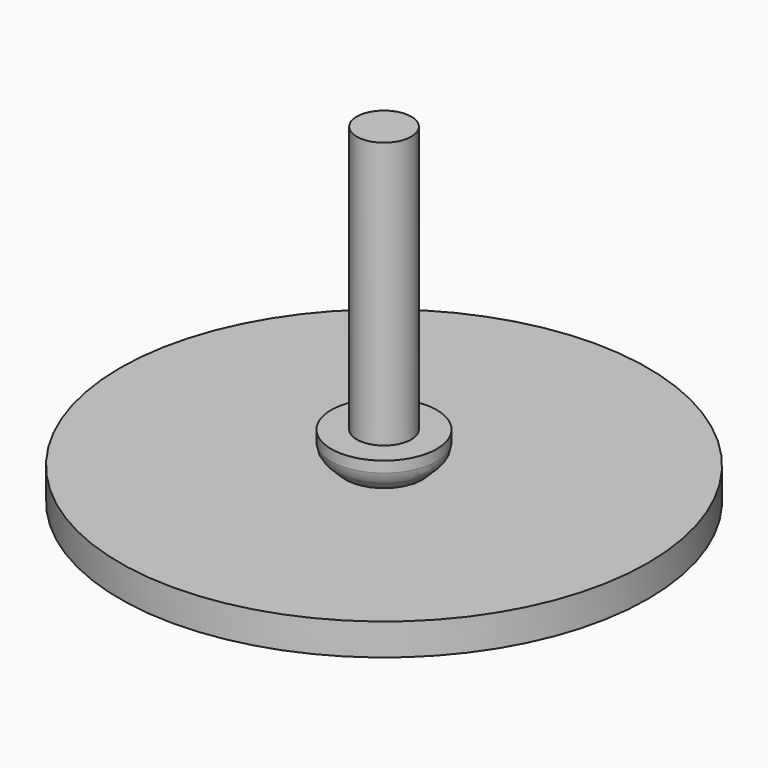
from build123d import *

# Parameters (mm, degrees)
F2_R     = 8
F2_R_2   = 4.125
F3_DEPTH = 9.6
F4_DEPTH = 4.8
F5_SIZE  = 6.96
F6_R     = 2.4
F2_R_3   = 40
F7_DEPTH = 4.8
F8_DEPTH = 50


with BuildPart() as f3:
    # F2 (on Top) → F3 (new body)
    with BuildSketch(Plane.XY):
        Circle(F2_R)
        Circle(F2_R_2, mode=Mode.SUBTRACT)
    extrude(amount=F3_DEPTH)

    # F2 (on Top) → F4 (join)
    with BuildSketch(Plane.XY):
        Circle(F2_R_2)
    extrude(amount=F4_DEPTH)

    # F5
    f5_edges = [f3.edges().sort_by_distance(p)[0] for p in [
        (-8, 0, 0),
    ]]
    chamfer(f5_edges, length=F5_SIZE)

    # F6
    f6_edges = [f3.edges().sort_by_distance(p)[0] for p in [
        (-8, 0, 6.96),
        (-1.04, 0, 0),
    ]]
    fillet(f6_edges, radius=F6_R)


with BuildPart() as f7:
    # F2 (on Top) → F7 (new body)
    with BuildSketch(Plane.XY):
        Circle(F2_R_3)
        Circle(F2_R, mode=Mode.SUBTRACT)
        Circle(F2_R)
        Circle(F2_R_2, mode=Mode.SUBTRACT)
    extrude(amount=F7_DEPTH)


with BuildPart() as f8:
    # F2 (on Top) → F8 (new body)
    with BuildSketch(Plane.XY):
        Circle(F2_R_2)
    extrude(amount=F8_DEPTH)


solid = Compound([f3.part, f7.part, f8.part])
